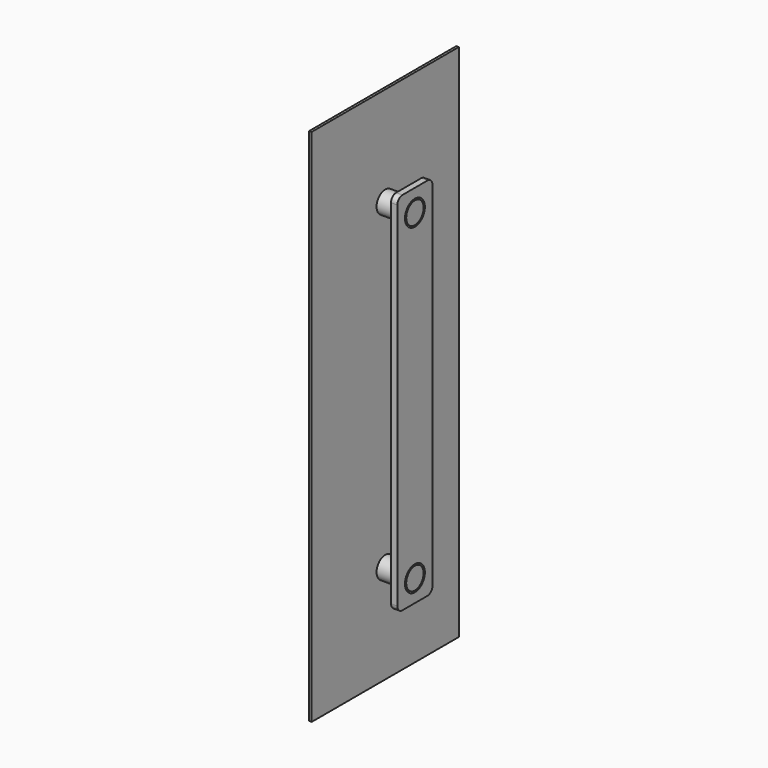
from build123d import *

# Parameters (mm, degrees)
F0_R     = 10.9855
F1_DEPTH = 30
F2_W     = 186.002656
F2_H     = 525.473654
F3_DEPTH = 2.54
F4_W     = 44.45
F4_H     = 369.8875
F4_R     = 12.573
F5_DEPTH = 6.35
F6_R     = 6.35


with BuildPart() as f1:
    # F0 (on Right) → F1 (new body)
    with BuildSketch(Plane.YZ):
        with Locations((0, -162.71875)):
            Circle(F0_R)
        with Locations((0, 162.71875)):
            Circle(F0_R)
    extrude(amount=F1_DEPTH)


with BuildPart() as f3:
    # F2 (on face) → F3 (new body)
    with BuildSketch(Plane(origin=(0, 0, 0), x_dir=(0, -1, 0), z_dir=(-1, 0, 0))):
        Rectangle(F2_W, F2_H)
    extrude(amount=F3_DEPTH)


with BuildPart() as f5:
    # F4 (on face) → F5 (new body)
    with BuildSketch(Plane.YZ.offset(30)):
        Rectangle(F4_W, F4_H)
        with Locations((0, -162.71875)):
            Circle(F4_R, mode=Mode.SUBTRACT)
        with Locations((0, 162.71875)):
            Circle(F4_R, mode=Mode.SUBTRACT)
    extrude(amount=-F5_DEPTH)

    # F6
    f6_edges = [f5.edges().sort_by_distance(p)[0] for p in [
        (26.825, -22.225, 184.94375),
        (26.825, 22.225, 184.94375),
        (26.825, 22.225, -184.94375),
        (26.825, -22.225, -184.94375),
    ]]
    fillet(f6_edges, radius=F6_R)


solid = Compound([f1.part, f3.part, f5.part])
